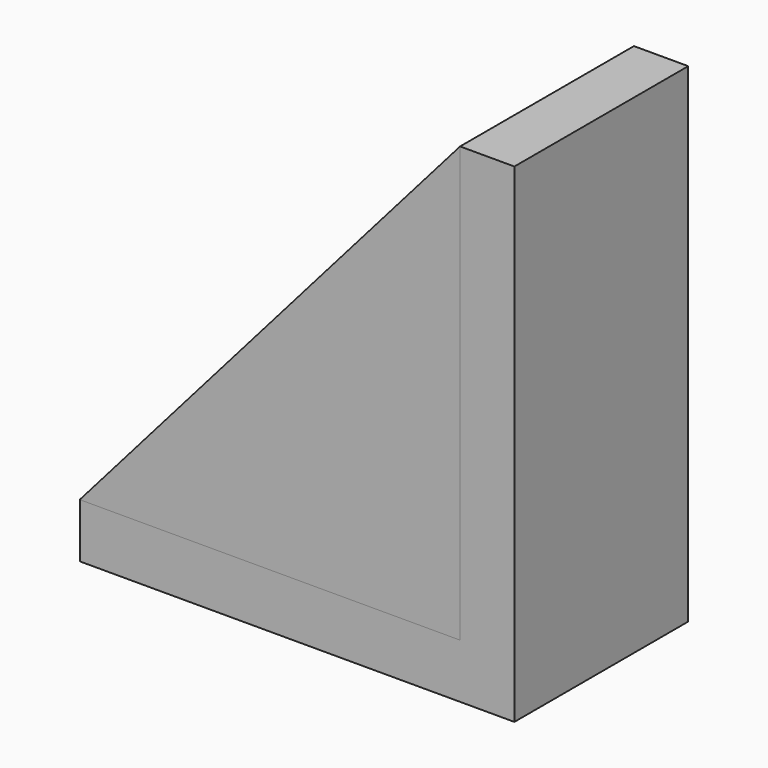
from build123d import *

# Parameters (mm, degrees)
F0_W     = 40
F0_H     = 20
F1_DEPTH = 5
F2_W     = 5
F2_H     = 20
F3_DEPTH = 40
F5_DEPTH = 5


with BuildPart() as f1:
    # F0 (on Top) → F1 (new body)
    with BuildSketch(Plane.XY):
        Rectangle(F0_W, F0_H)
    extrude(amount=F1_DEPTH)

    # F2 (on face) → F3 (join)
    with BuildSketch(Plane.XY.offset(5)):
        with Locations((17.5, 0)):
            Rectangle(F2_W, F2_H)
    extrude(amount=F3_DEPTH)


with BuildPart() as f5:
    # F4 (on face) → F5 (new body)
    with BuildSketch(Plane.XZ.offset(10)):
        Polygon((15, 5), (15, 45), (-20, 5), align=None)
    extrude(amount=-F5_DEPTH)


solid = Compound([f1.part, f5.part])
